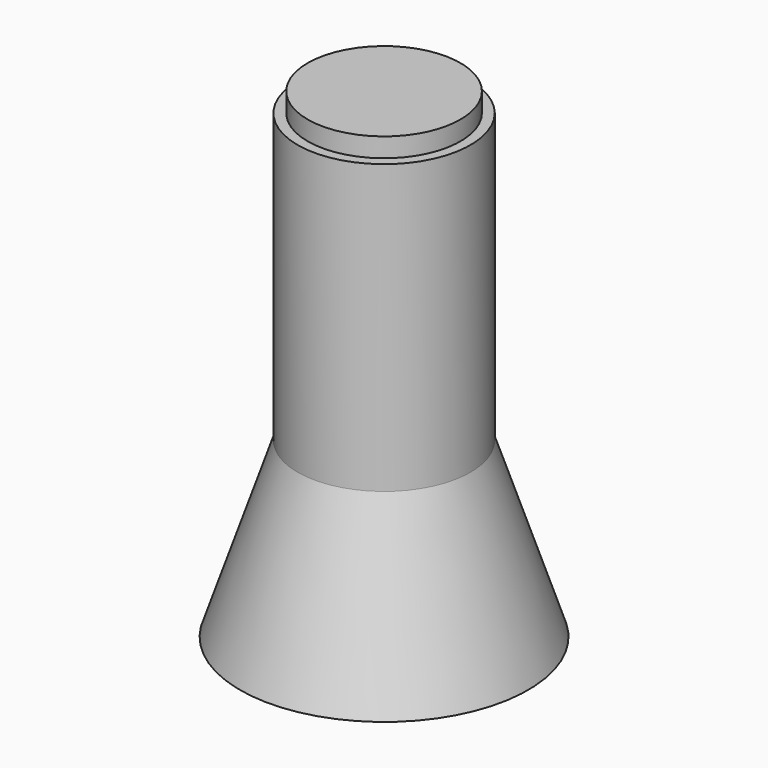
from build123d import *

# Parameters (mm, degrees)
F2_W = 3.9780945517
F2_H = 25


with BuildPart() as f1:
    # F0 (on Front) → F1 (revolve)
    with BuildSketch(Plane.XZ):
        Polygon((-7.5, 0), (0, 0), (0, 24), (-4.5, 24), (-4.5, 9), align=None)
        Polygon((-7.5, 0), (0, 0), (0, 24), (-4.5, 24), (-4.5, 9), align=None)
    revolve(axis=Axis((0, 0, 12), (0, 0, 1)))

    # F2 (on Front) → F3 (revolve)
    with BuildSketch(Plane.XZ):
        with Locations((-1.9890472759, 12.5)):
            Rectangle(F2_W, F2_H)
    revolve(axis=Axis((0, 0, 12.5), (0, 0, 1)))


solid = f1.part
